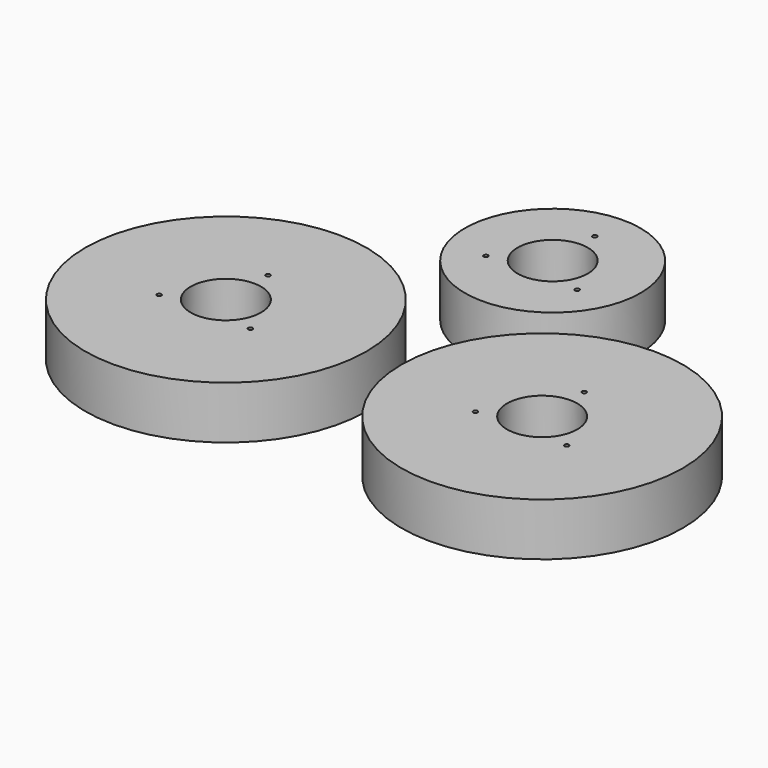
from build123d import *

# Parameters (mm, degrees)
F0_R     = 50.8
F0_R_2   = 0.79375
F0_R_3   = 12.7
F0_R_4   = 31.75
F1_DEPTH = 19.05


with BuildPart() as f1:
    # F0 (on Top) → F1 (new body)
    with BuildSketch(Plane.XY):
        Circle(F0_R)
        with Locations((-16.497784, -9.525)):
            Circle(F0_R_2, mode=Mode.SUBTRACT)
        Circle(F0_R_3, mode=Mode.SUBTRACT)
        with Locations((0, 19.05)):
            Circle(F0_R_2, mode=Mode.SUBTRACT)
        with Locations((16.497784, -9.525)):
            Circle(F0_R_2, mode=Mode.SUBTRACT)
        with Locations((114.3, 0)):
            Circle(F0_R)
        with Locations((97.802216, -9.525)):
            Circle(F0_R_2, mode=Mode.SUBTRACT)
        with Locations((130.797784, -9.525)):
            Circle(F0_R_2, mode=Mode.SUBTRACT)
        with Locations((114.3, 0)):
            Circle(F0_R_3, mode=Mode.SUBTRACT)
        with Locations((114.3, 19.05)):
            Circle(F0_R_2, mode=Mode.SUBTRACT)
        with Locations((57.15, 76.2)):
            Circle(F0_R_4)
        with Locations((40.652216, 66.675)):
            Circle(F0_R_2, mode=Mode.SUBTRACT)
        with Locations((73.647784, 66.675)):
            Circle(F0_R_2, mode=Mode.SUBTRACT)
        with Locations((57.15, 76.2)):
            Circle(F0_R_3, mode=Mode.SUBTRACT)
        with Locations((57.15, 95.25)):
            Circle(F0_R_2, mode=Mode.SUBTRACT)
    extrude(amount=F1_DEPTH)


solid = f1.part
